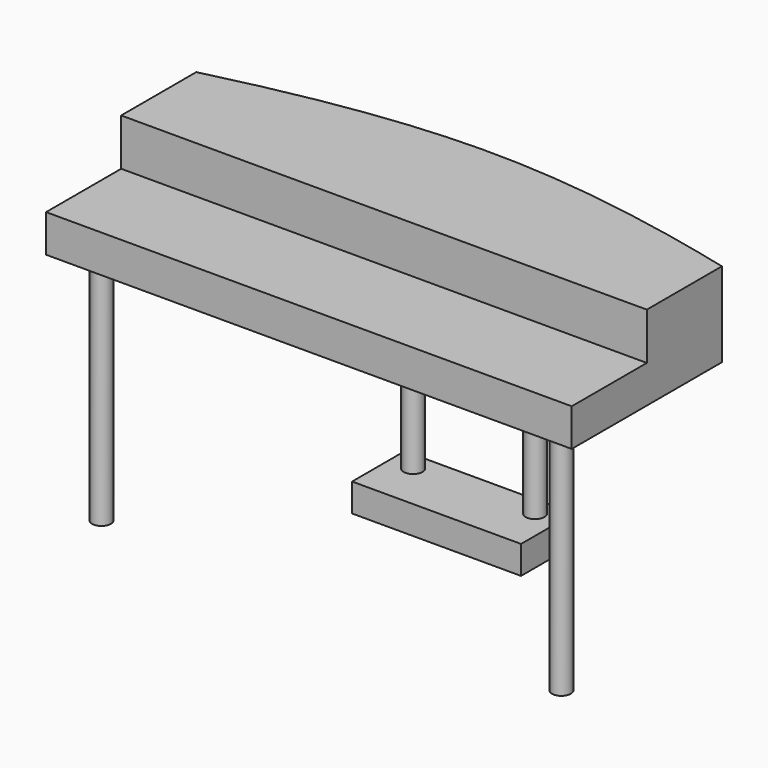
from build123d import *

# Parameters (mm, degrees)
F0_R     = 25.4
F1_DEPTH = 228.6
F0_W     = 1422.4
F0_H     = 254
F2_DEPTH = 101.6
F3_DEPTH = 635
F4_W     = 457.2
F4_H     = 177.8
F5_DEPTH = 76.2


with BuildPart() as f1:
    # F0 (on Top) → F1 (new body)
    with BuildSketch(Plane.XY):
        with BuildLine():
            Line((0, 508), (0, 254))
            Line((0, 254), (1422.4, 254))
            Line((1422.4, 254), (1422.4, 508))
            add(Edge.make_bspline(
                [(0, 508), (241.551548, 567.851314), (711.2, 651.348686), (1180.848452, 567.851314), (1422.4, 508)],
                knots=[0, 0, 0, 0, 718.42049, 1436.840979, 1436.840979, 1436.840979, 1436.840979], degree=3))
        make_face()
        with Locations((546.1, 558.8)):
            Circle(F0_R, mode=Mode.SUBTRACT)
        with Locations((876.3, 558.8)):
            Circle(F0_R, mode=Mode.SUBTRACT)
        with Locations((546.1, 558.8)):
            Circle(F0_R)
        with Locations((876.3, 558.8)):
            Circle(F0_R)
    extrude(amount=F1_DEPTH)

    # F0 (on Top) → F2 (join)
    with BuildSketch(Plane.XY):
        with Locations((711.2, 127)):
            Rectangle(F0_W, F0_H)
        with Locations((88.9, 76.2)):
            Circle(F0_R, mode=Mode.SUBTRACT)
        with Locations((1333.5, 76.2)):
            Circle(F0_R, mode=Mode.SUBTRACT)
        with Locations((88.9, 76.2)):
            Circle(F0_R)
        with Locations((1333.5, 76.2)):
            Circle(F0_R)
    extrude(amount=F2_DEPTH)

    # F0 (on Top) → F3 (join)
    with BuildSketch(Plane.XY):
        with Locations((876.3, 558.8)):
            Circle(F0_R)
        with Locations((546.1, 558.8)):
            Circle(F0_R)
        with Locations((1333.5, 76.2)):
            Circle(F0_R)
        with Locations((88.9, 76.2)):
            Circle(F0_R)
    extrude(amount=-F3_DEPTH)

    # F4 (on face) → F5 (join)
    with BuildSketch(Plane(origin=(0, 0, -635), x_dir=(1, 0, 0), z_dir=(0, 0, -1))):
        with Locations((711.2, -520.7)):
            Rectangle(F4_W, F4_H)
    extrude(amount=-F5_DEPTH)


solid = f1.part
